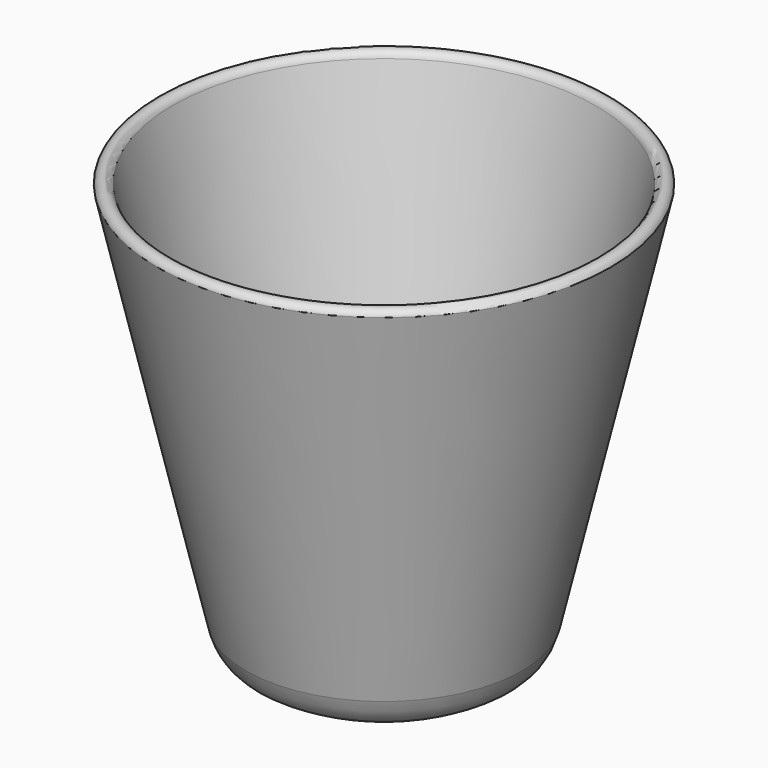
from build123d import *


with BuildPart() as f1:
    # F0 (on Front) → F1 (revolve)
    with BuildSketch(Plane.XZ):
        with BuildLine():
            ThreePointArc((-27.254891, 57.15), (-28.232445, 57.927582), (-29.21, 57.15))
            Line((-29.21, 57.15), (-17.782486, 7.652001))
            add(Edge.make_bspline(
                [(-17.782486, 7.652001), (-17.197721, 5.449173), (-16.181679, 4.636306), (-15.374223, 4.161495)],
                knots=[0, 0, 0, 0, 4.240679, 4.240679, 4.240679, 4.240679], degree=3))
            Line((-15.374223, 4.161495), (-15.374223, 7.705571))
            Line((-15.374223, 7.705571), (0, 7.705571))
            Line((0, 7.705571), (0, 9.525))
            Line((0, 9.525), (-12.218979, 9.525))
            ThreePointArc((-12.218979, 9.525), (-15.381353, 10.629351), (-17.168779, 13.462249))
            Line((-17.168779, 13.462249), (-27.254891, 57.15))
        make_face()
    revolve(axis=Axis((0, 0, 4.7625), (0, 0, 1)))


with BuildPart() as f3:
    # F0 (on Front) → F3 (revolve)
    with BuildSketch(Plane.XZ):
        with BuildLine():
            Line((-15.374223, 7.705571), (-15.374223, 4.161495))
            ThreePointArc((-15.374223, 4.161495), (-7.989802, 0.962489), (0, 0))
            Line((0, 0), (0, 7.705571))
            Line((0, 7.705571), (-15.374223, 7.705571))
        make_face()
    revolve(axis=Axis((0, 0, 12.045433), (0, 0, -1)))


solid = Compound([f1.part, f3.part])
